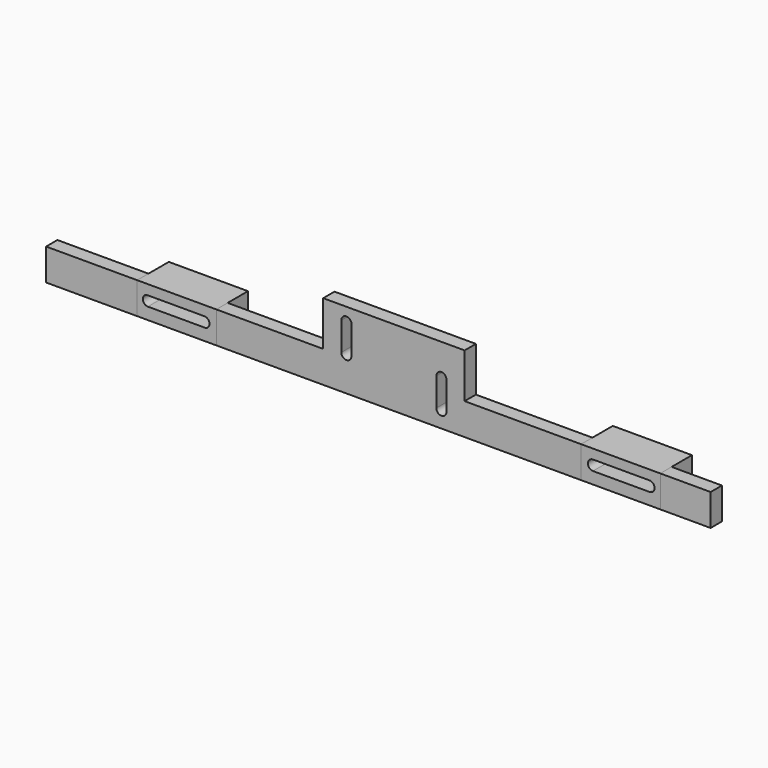
from build123d import *

# Parameters (mm, degrees)
F0_W     = 40.894
F0_H     = 14.224
F0_W_2   = 35.56
F0_W_3   = 22.606
F1_DEPTH = 6.35
F2_DEPTH = 17.78


with BuildPart() as f1:
    # F0 (on Front) → F1 (new body)
    with BuildSketch(Plane.XZ):
        with Locations((-123.643283, 8.687495)):
            Rectangle(F0_W, F0_H)
        with Locations((-85.416283, 8.687495)):
            Rectangle(F0_W_2, F0_H)
        with BuildLine():
            ThreePointArc((-98.370283, 6.909495), (-100.62757, 8.834314), (-99.083572, 11.367364))
            Line((-99.083572, 11.367364), (-72.970283, 11.367364))
            ThreePointArc((-72.970283, 11.367364), (-70.712996, 9.442545), (-72.256995, 6.909495))
            Line((-72.256995, 6.909495), (-98.370283, 6.909495))
        make_face(mode=Mode.SUBTRACT)
        Polygon((-19.630283, 15.799495), (-67.636283, 15.799495), (-67.636283, 1.575495), (96.193717, 1.575495), (96.193717, 15.799495), (43.869717, 15.799495), (43.869717, 35.865495), (-19.630283, 35.865495), align=None)
        with BuildLine():
            ThreePointArc((31.169717, 21.641495), (33.455717, 23.927495), (35.741717, 21.641495))
            Line((35.741717, 21.641495), (35.741717, 8.941495))
            ThreePointArc((35.741717, 8.941495), (33.455717, 6.655495), (31.169717, 8.941495))
            Line((31.169717, 8.941495), (31.169717, 21.641495))
        make_face(mode=Mode.SUBTRACT)
        with BuildLine():
            ThreePointArc((-11.502283, 29.769495), (-9.216283, 32.055495), (-6.930283, 29.769495))
            Line((-6.930283, 29.769495), (-6.930283, 17.069495))
            ThreePointArc((-6.930283, 17.069495), (-9.216283, 14.783495), (-11.502283, 17.069495))
            Line((-11.502283, 17.069495), (-11.502283, 29.769495))
        make_face(mode=Mode.SUBTRACT)
        with Locations((113.973717, 8.687495)):
            Rectangle(F0_W_2, F0_H)
        with BuildLine():
            ThreePointArc((101.527717, 6.909495), (99.241717, 9.195495), (101.527717, 11.481495))
            Line((101.527717, 11.481495), (126.927717, 11.481495))
            ThreePointArc((126.927717, 11.481495), (129.213717, 9.195495), (126.927717, 6.909495))
            Line((126.927717, 6.909495), (101.527717, 6.909495))
        make_face(mode=Mode.SUBTRACT)
        with Locations((143.056717, 8.687495)):
            Rectangle(F0_W_3, F0_H)
    extrude(amount=-F1_DEPTH)


with BuildPart() as f2:
    # F0 (on Front) → F2 (new body)
    with BuildSketch(Plane.XZ):
        with Locations((-85.416283, 8.687495)):
            Rectangle(F0_W_2, F0_H)
        with BuildLine():
            ThreePointArc((-98.370283, 6.909495), (-100.62757, 8.834314), (-99.083572, 11.367364))
            Line((-99.083572, 11.367364), (-72.970283, 11.367364))
            ThreePointArc((-72.970283, 11.367364), (-70.712996, 9.442545), (-72.256995, 6.909495))
            Line((-72.256995, 6.909495), (-98.370283, 6.909495))
        make_face(mode=Mode.SUBTRACT)
        with Locations((113.973717, 8.687495)):
            Rectangle(F0_W_2, F0_H)
        with BuildLine():
            ThreePointArc((101.527717, 6.909495), (99.241717, 9.195495), (101.527717, 11.481495))
            Line((101.527717, 11.481495), (126.927717, 11.481495))
            ThreePointArc((126.927717, 11.481495), (129.213717, 9.195495), (126.927717, 6.909495))
            Line((126.927717, 6.909495), (101.527717, 6.909495))
        make_face(mode=Mode.SUBTRACT)
    extrude(amount=-F2_DEPTH)


solid = Compound([f1.part, f2.part])
